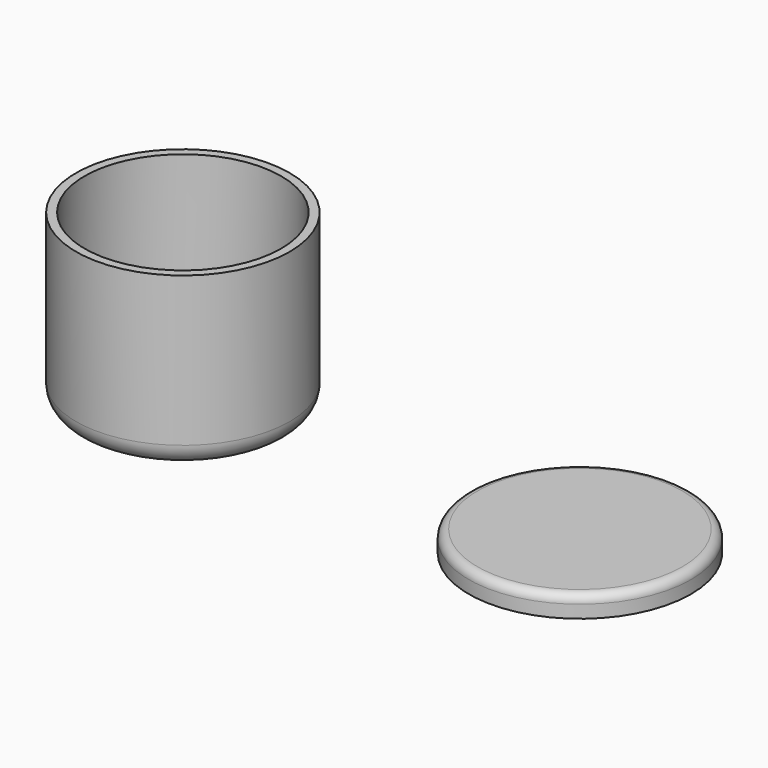
from build123d import *

# Parameters (mm, degrees)
F0_R     = 25
F1_DEPTH = 40
F0_R_2   = 26
F2_DEPTH = 5
F3_R     = 2
F4_T     = -2
F5_R     = 5
F6_R     = 5
F7_T     = -1


with BuildPart() as f1:
    # F0 (on Top) → F1 (new body)
    with BuildSketch(Plane.XY):
        Circle(F0_R)
    extrude(amount=F1_DEPTH)

    # F4
    f4_openings = [f1.faces().sort_by_distance(p)[0] for p in [
        (0, 0, 40),
    ]]
    offset(amount=F4_T, openings=f4_openings)

    # F5
    f5_edges = [f1.edges().sort_by_distance(p)[0] for p in [
        (-23, 0, 2),
    ]]
    fillet(f5_edges, radius=F5_R)

    # F6
    f6_edges = [f1.edges().sort_by_distance(p)[0] for p in [
        (-25, 0, 0),
    ]]
    fillet(f6_edges, radius=F6_R)


with BuildPart() as f2:
    # F0 (on Top) → F2 (new body)
    with BuildSketch(Plane.XY):
        with Locations((92.9422974586, 0)):
            Circle(F0_R_2)
    extrude(amount=F2_DEPTH)

    # F3
    f3_edges = [f2.edges().sort_by_distance(p)[0] for p in [
        (66.942297, 0, 5),
    ]]
    fillet(f3_edges, radius=F3_R)

    # F7
    f7_openings = [f2.faces().sort_by_distance(p)[0] for p in [
        (92.942297, 0, 0),
    ]]
    offset(amount=F7_T, openings=f7_openings)


solid = Compound([f1.part, f2.part])
